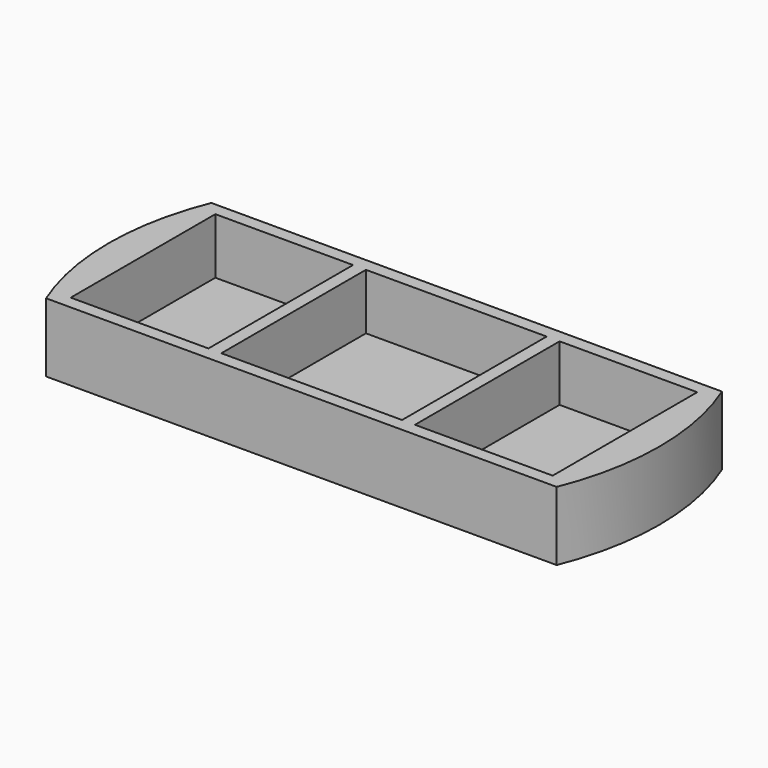
from build123d import *

# Parameters (mm, degrees)
F1_DEPTH = 25.4
F3_DEPTH = 20.6375
F4_W     = 4.7625
F4_H     = 66.675
F5_DEPTH = 20.6375


with BuildPart() as f1:
    # F0 (on Top) → F1 (new body)
    with BuildSketch(Plane.XY):
        with BuildLine():
            Line((195.785721, 0), (7.414279, 0))
            ThreePointArc((7.414279, 0), (0, -38.1), (7.414279, -76.2))
            Line((7.414279, -76.2), (195.785721, -76.2))
            ThreePointArc((195.785721, -76.2), (203.2, -38.1), (195.785721, 0))
        make_face()
    extrude(amount=F1_DEPTH)

    # F2 (on face) → F3 (cut)
    with BuildSketch(Plane.XY.offset(25.4)):
        Polygon((15.875, -4.7625), (12.7, -4.7625), (12.7, -71.4375), (15.875, -71.4375), (15.875, -38.1), align=None)
        Polygon((187.325, -4.7625), (15.875, -4.7625), (15.875, -38.1), (15.875, -71.4375), (187.325, -71.4375), (187.325, -38.1), align=None)
        Polygon((190.5, -4.7625), (187.325, -4.7625), (187.325, -38.1), (187.325, -71.4375), (190.5, -71.4375), align=None)
    extrude(amount=-F3_DEPTH, mode=Mode.SUBTRACT)

    # F4 (on face) → F5 (join)
    with BuildSketch(Plane.XY.offset(4.7625)):
        with Locations((65.88125, -38.1)):
            Rectangle(F4_W, F4_H)
        with Locations((137.31875, -38.1)):
            Rectangle(F4_W, F4_H)
    extrude(amount=F5_DEPTH)


solid = f1.part
